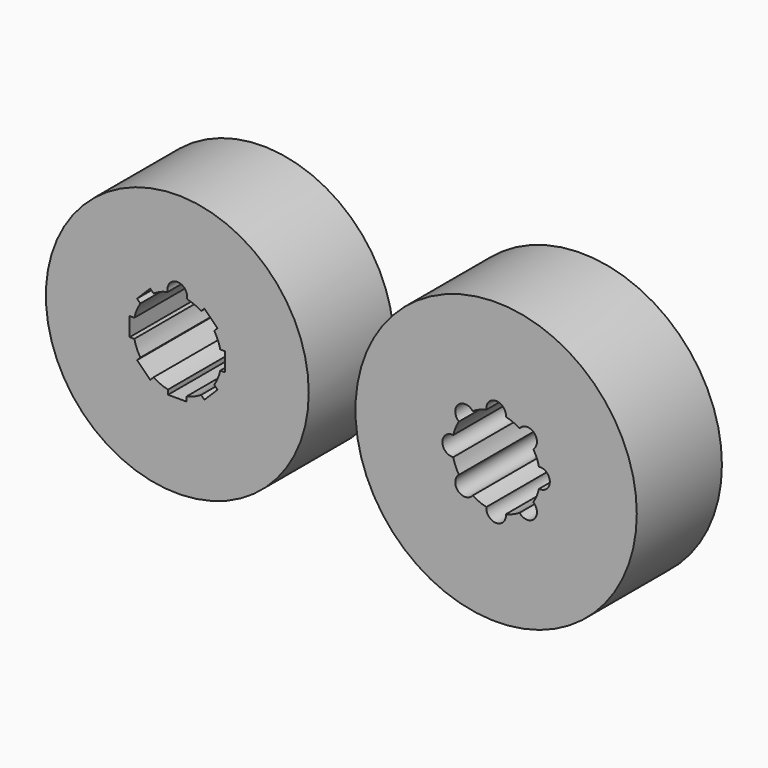
from build123d import *

# Parameters (mm, degrees)
F0_R     = 30.880918
F1_DEPTH = 25
F3_DEPTH = 25
F4_R     = 2.3
F5_DEPTH = 25
F6_R     = 33.047929
F7_DEPTH = 25
F9_DEPTH = 25


with BuildPart() as f1:
    # F0 (on Front) → F1 (new body)
    with BuildSketch(Plane.XZ):
        Circle(F0_R)
    extrude(amount=F1_DEPTH)

    # F2 (on face) → F3 (cut)
    with BuildSketch(Plane.XZ.offset(25)):
        with BuildLine():
            Line((-9.443411, 6.360425), (-8.677781, 5.594796))
            ThreePointArc((-8.677781, 5.594796), (-9.539056, 3.951206), (-10.092236, 2.18))
            Line((-10.092236, 2.18), (-11.175, 2.18))
            Line((-11.175, 2.18), (-11.175, -2.18))
            Line((-11.175, -2.18), (-10.092236, -2.18))
            ThreePointArc((-10.092236, -2.18), (-9.539056, -3.951206), (-8.677781, -5.594796))
            Line((-8.677781, -5.594796), (-9.443411, -6.360425))
            Line((-9.443411, -6.360425), (-6.360425, -9.443411))
            Line((-6.360425, -9.443411), (-5.594796, -8.677781))
            ThreePointArc((-5.594796, -8.677781), (-3.951206, -9.539056), (-2.18, -10.092236))
            Line((-2.18, -10.092236), (-2.18, -11.175))
            Line((-2.18, -11.175), (2.18, -11.175))
            Line((2.18, -11.175), (2.18, -10.092236))
            ThreePointArc((2.18, -10.092236), (3.951206, -9.539056), (5.594796, -8.677781))
            Line((5.594796, -8.677781), (6.360425, -9.443411))
            Line((6.360425, -9.443411), (9.443411, -6.360425))
            Line((9.443411, -6.360425), (8.677781, -5.594796))
            ThreePointArc((8.677781, -5.594796), (9.539056, -3.951206), (10.092236, -2.18))
            Line((10.092236, -2.18), (11.175, -2.18))
            Line((11.175, -2.18), (11.175, 2.18))
            Line((11.175, 2.18), (10.092236, 2.18))
            ThreePointArc((10.092236, 2.18), (9.539056, 3.951206), (8.677781, 5.594796))
            Line((8.677781, 5.594796), (9.443411, 6.360425))
            Line((9.443411, 6.360425), (6.360425, 9.443411))
            Line((6.360425, 9.443411), (5.594796, 8.677781))
            ThreePointArc((5.594796, 8.677781), (3.951206, 9.539056), (2.18, 10.092236))
            Line((2.18, 10.092236), (2.18, 11.175))
            Line((2.18, 11.175), (-2.18, 11.175))
            Line((-2.18, 11.175), (-2.18, 10.092236))
            ThreePointArc((-2.18, 10.092236), (-3.951206, 9.539056), (-5.594796, 8.677781))
            Line((-5.594796, 8.677781), (-6.360425, 9.443411))
            Line((-6.360425, 9.443411), (-9.443411, 6.360425))
        make_face()
    extrude(amount=-F3_DEPTH, mode=Mode.SUBTRACT)

    # F4 (on face) → F5 (cut)
    with BuildSketch(Plane.XZ.offset(25)):
        with Locations((0, 10.590222)):
            Circle(F4_R)
    extrude(amount=-F5_DEPTH, mode=Mode.SUBTRACT)


with BuildPart() as f7:
    # F6 (on Front) → F7 (new body)
    with BuildSketch(Plane.XZ):
        with Locations((74.894816, 0)):
            Circle(F6_R)
    extrude(amount=F7_DEPTH)

    # F8 (on face) → F9 (cut)
    with BuildSketch(Plane.XZ.offset(25)):
        with BuildLine():
            ThreePointArc((69.391307, 8.735961), (65.967593, 8.927223), (66.158855, 5.503509))
            ThreePointArc((66.158855, 5.503509), (65.35576, 3.951206), (64.82599, 2.285689))
            ThreePointArc((64.82599, 2.285689), (62.269816, 0), (64.82599, -2.285689))
            ThreePointArc((64.82599, -2.285689), (65.35576, -3.951206), (66.158855, -5.503509))
            ThreePointArc((66.158855, -5.503509), (65.967593, -8.927223), (69.391307, -8.735961))
            ThreePointArc((69.391307, -8.735961), (70.943609, -9.539056), (72.609127, -10.068826))
            ThreePointArc((72.609127, -10.068826), (74.894816, -12.625), (77.180505, -10.068826))
            ThreePointArc((77.180505, -10.068826), (78.846022, -9.539056), (80.398324, -8.735961))
            ThreePointArc((80.398324, -8.735961), (83.822039, -8.927223), (83.630777, -5.503509))
            ThreePointArc((83.630777, -5.503509), (84.433872, -3.951206), (84.963641, -2.285689))
            ThreePointArc((84.963641, -2.285689), (87.519816, 0), (84.963641, 2.285689))
            ThreePointArc((84.963641, 2.285689), (84.433872, 3.951206), (83.630777, 5.503509))
            ThreePointArc((83.630777, 5.503509), (83.822039, 8.927223), (80.398324, 8.735961))
            ThreePointArc((80.398324, 8.735961), (78.846022, 9.539056), (77.180505, 10.068826))
            ThreePointArc((77.180505, 10.068826), (74.894816, 12.625), (72.609127, 10.068826))
            ThreePointArc((72.609127, 10.068826), (70.943609, 9.539056), (69.391307, 8.735961))
        make_face()
    extrude(amount=-F9_DEPTH, mode=Mode.SUBTRACT)


solid = Compound([f1.part, f7.part])
